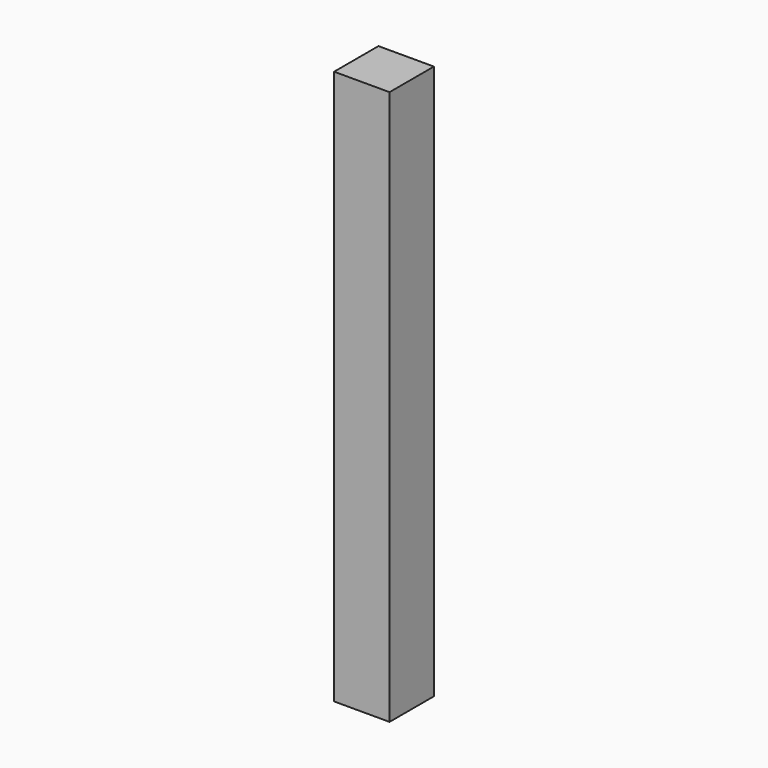
from build123d import *

# Parameters (mm, degrees)
BOX_W     = 10
BOX_H     = 10
BOX_DEPTH = 100


with BuildPart() as part:
    # Box → Box (new body)
    with BuildSketch(Plane.XY):
        with Locations((5, 5)):
            Rectangle(BOX_W, BOX_H)
    extrude(amount=BOX_DEPTH)


solid = part.part
